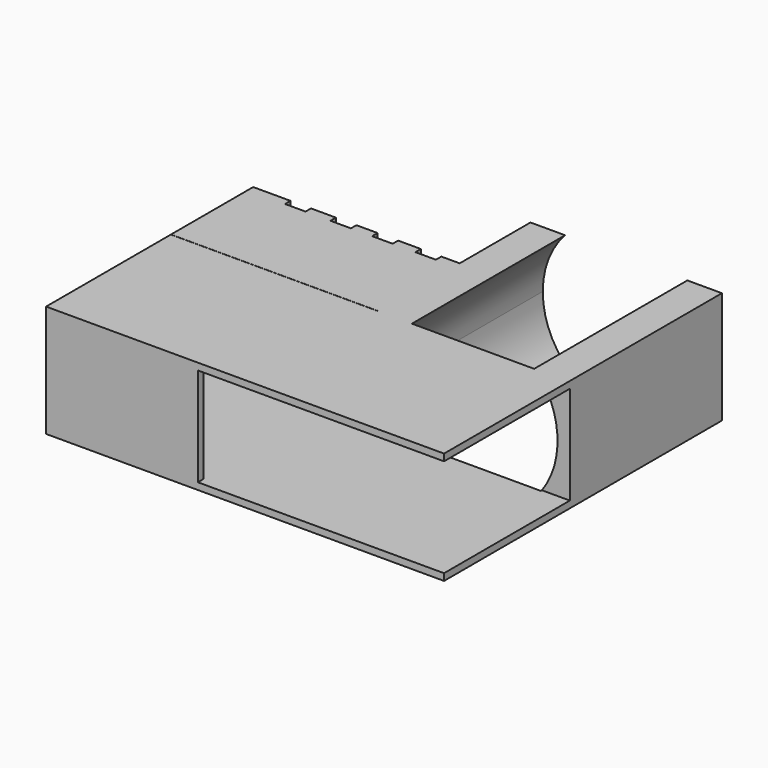
from build123d import *

# Parameters (mm, degrees)
F0_W      = 14
F0_H      = 14
F1_DEPTH  = 8.2
F2_W      = 18
F2_H      = 7.2
F3_DEPTH  = 11.5
F5_DEPTH  = 14
F6_W      = 10.9
F6_H      = 7.2
F7_DEPTH  = 25
F8_W      = 15.1089467108
F8_H      = 7.5144236907
F9_DEPTH  = 8.2
F10_W     = 7.0144236907
F10_H     = 7.2
F11_DEPTH = 15.1
F12_W     = 1.5
F12_H     = 8.2
F13_DEPTH = 0.5


with BuildPart() as f1:
    # F0 (on Top) → F1 (new body)
    with BuildSketch(Plane.XY):
        Polygon((0, 11.4), (0, 0), (29.1, 0), (29.1, 11.4), (15.1, 11.4), align=None)
        with Locations((22.1, 18.4)):
            Rectangle(F0_W, F0_H)
    extrude(amount=F1_DEPTH)

    # F2 (on face) → F3 (cut)
    with BuildSketch(Plane.XZ):
        with Locations((20.1, 4.1)):
            Rectangle(F2_W, F2_H)
    extrude(amount=-F3_DEPTH, mode=Mode.SUBTRACT)

    # F4 (on face) → F5 (cut)
    with BuildSketch(Plane(origin=(0, 25.4, 0), x_dir=(-1, 0, 0), z_dir=(0, 1, 0))):
        with BuildLine():
            ThreePointArc((-17.5384761318, 0), (-16.3975752703, 1.8838162123), (-16, 4.05))
            ThreePointArc((-16, 4.05), (-16.4219059983, 6.2791811295), (-17.6292618059, 8.2))
            Line((-17.6292618059, 8.2), (-26.5707381941, 8.2))
            ThreePointArc((-26.5707381941, 8.2), (-28.1996261763, 4.1175315456), (-26.6615238682, 0))
            Line((-26.6615238682, 0), (-17.5384761318, 0))
        make_face()
    extrude(amount=-F5_DEPTH, mode=Mode.SUBTRACT)

    # F6 (on face) → F7 (cut)
    with BuildSketch(Plane(origin=(0, 0, 0), x_dir=(0, -1, 0), z_dir=(-1, 0, 0))):
        with Locations((-5.95, 4.1)):
            Rectangle(F6_W, F6_H)
    extrude(amount=-F7_DEPTH, mode=Mode.SUBTRACT)

    # F8 (on Top) → F9 (join)
    with BuildSketch(Plane.XY):
        with Locations((7.5544733554, 15.1720256545)):
            Rectangle(F8_W, F8_H)
        with Locations((7.5544733554, 15.1720256545)):
            Rectangle(F8_W, F8_H)
    extrude(amount=F9_DEPTH)

    # F10 (on face) → F11 (cut)
    with BuildSketch(Plane(origin=(0, 0, 0), x_dir=(0, -1, 0), z_dir=(-1, 0, 0))):
        with Locations((-14.9220256545, 4.1)):
            Rectangle(F10_W, F10_H)
    extrude(amount=-F11_DEPTH, mode=Mode.SUBTRACT)

    # F12 (on face) → F13 (cut)
    with BuildSketch(Plane(origin=(0, 18.9292374998, 0), x_dir=(-1, 0, 0), z_dir=(0, 1, 0))):
        with Locations((-13.0113965198, 4.1)):
            Rectangle(F12_W, F12_H)
        with Locations((-6.8, 4.1)):
            Rectangle(F12_W, F12_H)
        with Locations((-9.8479721993, 4.1)):
            Rectangle(F12_W, F12_H)
        with Locations((-3.4783656076, 4.1)):
            Rectangle(F12_W, F12_H)
    extrude(amount=-F13_DEPTH, mode=Mode.SUBTRACT)


solid = f1.part
